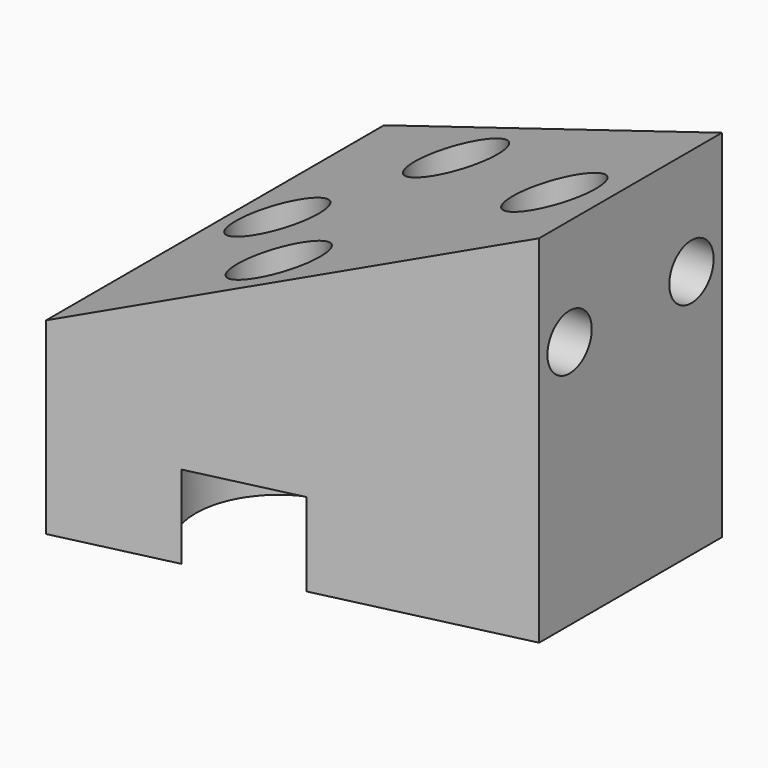
from build123d import *

# Parameters (mm, degrees)
SKETCH065_R  = 1
PAD047_DEPTH = 3
SKETCH056_R  = 3
PAD039_DEPTH = 10
SKETCH055_R  = 1.5
PAD038_DEPTH = 100
SKETCH057_R  = 1.5
PAD040_DEPTH = 100
SKETCH053_W  = 15.25
SKETCH053_H  = 6.793113
SKETCH054_W  = 8.25
SKETCH054_H  = 12.85529


with BuildPart() as pad047:
    # Sketch065 → Pad047 (new body)
    with BuildSketch(Plane.YZ.offset(31.5)):
        with Locations((2.75, -11)):
            Circle(SKETCH065_R)
        with Locations((-2.75, -11)):
            Circle(SKETCH065_R)
    extrude(amount=-PAD047_DEPTH)


with BuildPart() as mountingblockscrewcountersink:
    # Sketch056 → Pad039 (new body)
    with BuildSketch(Plane.XY.offset(-17)):
        with Locations((22, 4)):
            Circle(SKETCH056_R)
        with Locations((22, -4)):
            Circle(SKETCH056_R)
    extrude(amount=-PAD039_DEPTH)


with BuildPart() as mountingblockscrewcutout:
    # Sketch055 → Pad038 (new body)
    with BuildSketch(Plane.XY):
        with Locations((22, 4)):
            Circle(SKETCH055_R)
        with Locations((22, -4)):
            Circle(SKETCH055_R)
    extrude(amount=-PAD038_DEPTH)


with BuildPart() as cutouts:
    # Sketch057 → Pad040 (new body)
    with BuildSketch(Plane.XY):
        with Locations((28.75, 0)):
            Circle(SKETCH057_R)
        with Locations((18.75, 0)):
            Circle(SKETCH057_R)
    extrude(amount=-PAD040_DEPTH)

    # Fusion004011: union MountingBlockScrewCountersink, MountingBlockScrewCutout
    add(mountingblockscrewcountersink.part)
    add(mountingblockscrewcutout.part)


with BuildPart() as mountingblockpad:
    # Sketch053 → Loft003 section 0
    with BuildSketch(Plane.YZ.offset(16.5)):
        with Locations((0, -16.603444)):
            Rectangle(SKETCH053_W, SKETCH053_H)
    # Sketch054 → Loft003 section 1
    with BuildSketch(Plane.YZ.offset(31.5)):
        with Locations((0, -13.572355)):
            Rectangle(SKETCH054_W, SKETCH054_H)
    loft(ruled=True)

    # Cut007011: cut Cutouts
    add(cutouts.part, mode=Mode.SUBTRACT)

    # Cut007016: cut Pad047
    add(pad047.part, mode=Mode.SUBTRACT)


solid = mountingblockpad.part
